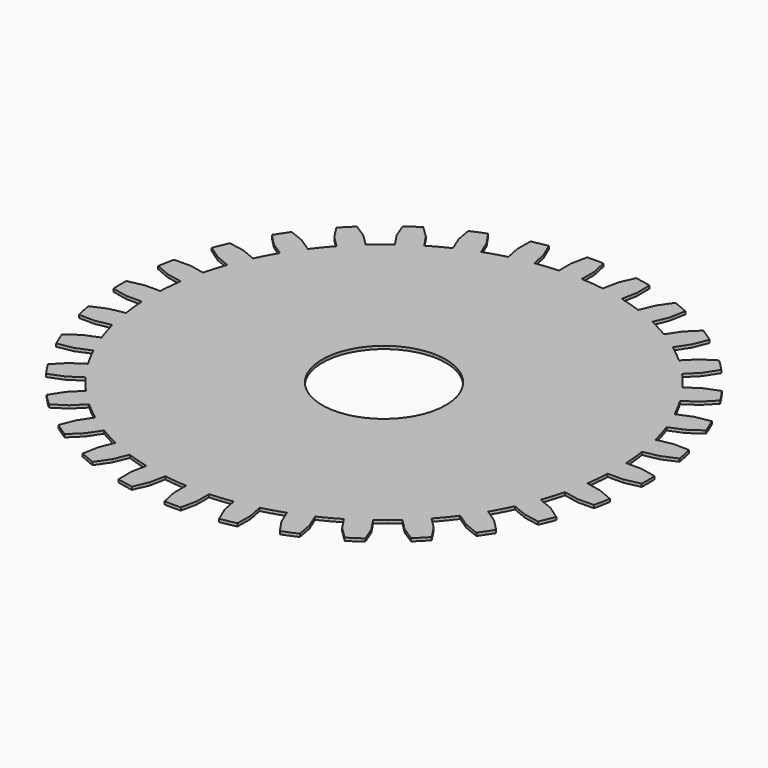
from build123d import *

# Parameters (mm, degrees)
F1_DEPTH = 0.1


with BuildPart() as f1:
    # F0 (on Top) → F1 (new body)
    with BuildSketch(Plane.XY):
        with BuildLine():
            Line((8.764995, 2.024817), (8.219204, 2.032026))
            ThreePointArc((8.219204, 2.032026), (8.303982, 1.651765), (8.371177, 1.268006))
            Line((8.371177, 1.268006), (8.872663, 1.483531))
            ThreePointArc((8.872663, 1.483531), (8.848863, 1.619456), (8.822981, 1.755))
            ThreePointArc((8.822981, 1.755), (8.795023, 1.890131), (8.764995, 2.024817))
        make_face()
        with BuildLine():
            Line((8.201556, 3.695877), (7.664846, 3.596468))
            ThreePointArc((7.664846, 3.596468), (7.82218, 3.240053), (7.962951, 2.876778))
            Line((7.962951, 2.876778), (8.412755, 3.185996))
            ThreePointArc((8.412755, 3.185996), (8.362895, 3.314666), (8.311066, 3.442556))
            ThreePointArc((8.311066, 3.442556), (8.257282, 3.569637), (8.201556, 3.695877))
        make_face()
        with BuildLine():
            Line((7.322935, 5.224906), (6.815932, 5.0227))
            ThreePointArc((6.815932, 5.0227), (7.039776, 4.703828), (7.248714, 4.374996))
            Line((7.248714, 4.374996), (7.629549, 4.766025))
            ThreePointArc((7.629549, 4.766025), (7.555545, 4.882496), (7.479762, 4.997817))
            ThreePointArc((7.479762, 4.997817), (7.402219, 5.111963), (7.322935, 5.224906))
        make_face()
        with BuildLine():
            Line((6.162898, 6.553144), (5.705086, 6.255913))
            ThreePointArc((5.705086, 6.255913), (5.986837, 5.986837), (6.255913, 5.705086))
            Line((6.255913, 5.705086), (6.553144, 6.162898))
            ThreePointArc((6.553144, 6.162898), (6.457839, 6.262693), (6.361015, 6.361015))
            ThreePointArc((6.361015, 6.361015), (6.262693, 6.457839), (6.162898, 6.553144))
        make_face()
        with BuildLine():
            Line((4.766025, 7.629549), (4.374996, 7.248714))
            ThreePointArc((4.374996, 7.248714), (4.703828, 7.039776), (5.0227, 6.815932))
            Line((5.0227, 6.815932), (5.224906, 7.322935))
            ThreePointArc((5.224906, 7.322935), (5.111963, 7.402219), (4.997817, 7.479762))
            ThreePointArc((4.997817, 7.479762), (4.882496, 7.555545), (4.766025, 7.629549))
        make_face()
        with BuildLine():
            Line((3.185996, 8.412755), (2.876778, 7.962951))
            ThreePointArc((2.876778, 7.962951), (3.240053, 7.82218), (3.596468, 7.664846))
            Line((3.596468, 7.664846), (3.695877, 8.201556))
            ThreePointArc((3.695877, 8.201556), (3.569637, 8.257282), (3.442556, 8.311066))
            ThreePointArc((3.442556, 8.311066), (3.314666, 8.362895), (3.185996, 8.412755))
        make_face()
        with BuildLine():
            Line((1.483531, 8.872663), (1.268006, 8.371177))
            ThreePointArc((1.268006, 8.371177), (1.651765, 8.303982), (2.032026, 8.219204))
            Line((2.032026, 8.219204), (2.024817, 8.764995))
            ThreePointArc((2.024817, 8.764995), (1.890131, 8.795023), (1.755, 8.822981))
            ThreePointArc((1.755, 8.822981), (1.619456, 8.848863), (1.483531, 8.872663))
        make_face()
        with BuildLine():
            Line((0, 8.995833), (0, 8.466667))
            ThreePointArc((0, 8.466667), (0.194798, 8.464425), (0.389494, 8.457703))
            Line((0.389494, 8.457703), (0.275945, 8.9916))
            ThreePointArc((0.275945, 8.9916), (0.137989, 8.994775), (0, 8.995833))
        make_face()
        with BuildLine():
            ThreePointArc((-0.389494, 8.457703), (-0.194798, 8.464425), (0, 8.466667))
            Line((0, 8.466667), (0, 8.995833))
            ThreePointArc((0, 8.995833), (-0.137989, 8.994775), (-0.275945, 8.9916))
            Line((-0.275945, 8.9916), (-0.389494, 8.457703))
        make_face()
        with BuildLine():
            ThreePointArc((-2.032026, 8.219204), (-1.651765, 8.303982), (-1.268006, 8.371177))
            Line((-1.268006, 8.371177), (-1.483531, 8.872663))
            ThreePointArc((-1.483531, 8.872663), (-1.619456, 8.848863), (-1.755, 8.822981))
            ThreePointArc((-1.755, 8.822981), (-1.890131, 8.795023), (-2.024817, 8.764995))
            Line((-2.024817, 8.764995), (-2.032026, 8.219204))
        make_face()
        with BuildLine():
            ThreePointArc((-3.596468, 7.664846), (-3.240053, 7.82218), (-2.876778, 7.962951))
            Line((-2.876778, 7.962951), (-3.185996, 8.412755))
            ThreePointArc((-3.185996, 8.412755), (-3.314666, 8.362895), (-3.442556, 8.311066))
            ThreePointArc((-3.442556, 8.311066), (-3.569637, 8.257282), (-3.695877, 8.201556))
            Line((-3.695877, 8.201556), (-3.596468, 7.664846))
        make_face()
        with BuildLine():
            ThreePointArc((-5.0227, 6.815932), (-4.703828, 7.039776), (-4.374996, 7.248714))
            Line((-4.374996, 7.248714), (-4.766025, 7.629549))
            ThreePointArc((-4.766025, 7.629549), (-4.882496, 7.555545), (-4.997817, 7.479762))
            ThreePointArc((-4.997817, 7.479762), (-5.111963, 7.402219), (-5.224906, 7.322935))
            Line((-5.224906, 7.322935), (-5.0227, 6.815932))
        make_face()
        with BuildLine():
            ThreePointArc((-6.255913, 5.705086), (-5.986837, 5.986837), (-5.705086, 6.255913))
            Line((-5.705086, 6.255913), (-6.162898, 6.553144))
            ThreePointArc((-6.162898, 6.553144), (-6.262693, 6.457839), (-6.361015, 6.361015))
            ThreePointArc((-6.361015, 6.361015), (-6.457839, 6.262693), (-6.553144, 6.162898))
            Line((-6.553144, 6.162898), (-6.255913, 5.705086))
        make_face()
        with BuildLine():
            ThreePointArc((-7.248714, 4.374996), (-7.039776, 4.703828), (-6.815932, 5.0227))
            Line((-6.815932, 5.0227), (-7.322935, 5.224906))
            ThreePointArc((-7.322935, 5.224906), (-7.402219, 5.111963), (-7.479762, 4.997817))
            ThreePointArc((-7.479762, 4.997817), (-7.555545, 4.882496), (-7.629549, 4.766025))
            Line((-7.629549, 4.766025), (-7.248714, 4.374996))
        make_face()
        with BuildLine():
            ThreePointArc((-7.962951, 2.876778), (-7.82218, 3.240053), (-7.664846, 3.596468))
            Line((-7.664846, 3.596468), (-8.201556, 3.695877))
            ThreePointArc((-8.201556, 3.695877), (-8.257282, 3.569637), (-8.311066, 3.442556))
            ThreePointArc((-8.311066, 3.442556), (-8.362895, 3.314666), (-8.412755, 3.185996))
            Line((-8.412755, 3.185996), (-7.962951, 2.876778))
        make_face()
        with BuildLine():
            ThreePointArc((-8.371177, 1.268006), (-8.303982, 1.651765), (-8.219204, 2.032026))
            Line((-8.219204, 2.032026), (-8.764995, 2.024817))
            ThreePointArc((-8.764995, 2.024817), (-8.795023, 1.890131), (-8.822981, 1.755))
            ThreePointArc((-8.822981, 1.755), (-8.848863, 1.619456), (-8.872663, 1.483531))
            Line((-8.872663, 1.483531), (-8.371177, 1.268006))
        make_face()
        with BuildLine():
            ThreePointArc((-8.457703, -0.389494), (-8.466667, 0), (-8.457703, 0.389494))
            Line((-8.457703, 0.389494), (-8.9916, 0.275945))
            ThreePointArc((-8.9916, 0.275945), (-8.994775, 0.137989), (-8.995833, 0))
            ThreePointArc((-8.995833, 0), (-8.994775, -0.137989), (-8.9916, -0.275945))
            Line((-8.9916, -0.275945), (-8.457703, -0.389494))
        make_face()
        with BuildLine():
            ThreePointArc((-8.219204, -2.032026), (-8.303982, -1.651765), (-8.371177, -1.268006))
            Line((-8.371177, -1.268006), (-8.872663, -1.483531))
            ThreePointArc((-8.872663, -1.483531), (-8.848863, -1.619456), (-8.822981, -1.755))
            ThreePointArc((-8.822981, -1.755), (-8.795023, -1.890131), (-8.764995, -2.024817))
            Line((-8.764995, -2.024817), (-8.219204, -2.032026))
        make_face()
        with BuildLine():
            ThreePointArc((-7.664846, -3.596468), (-7.82218, -3.240053), (-7.962951, -2.876778))
            Line((-7.962951, -2.876778), (-8.412755, -3.185996))
            ThreePointArc((-8.412755, -3.185996), (-8.362895, -3.314666), (-8.311066, -3.442556))
            ThreePointArc((-8.311066, -3.442556), (-8.257282, -3.569637), (-8.201556, -3.695877))
            Line((-8.201556, -3.695877), (-7.664846, -3.596468))
        make_face()
        with BuildLine():
            ThreePointArc((-6.815932, -5.0227), (-7.039776, -4.703828), (-7.248714, -4.374996))
            Line((-7.248714, -4.374996), (-7.629549, -4.766025))
            ThreePointArc((-7.629549, -4.766025), (-7.555545, -4.882496), (-7.479762, -4.997817))
            ThreePointArc((-7.479762, -4.997817), (-7.402219, -5.111963), (-7.322935, -5.224906))
            Line((-7.322935, -5.224906), (-6.815932, -5.0227))
        make_face()
        with BuildLine():
            ThreePointArc((-5.705086, -6.255913), (-5.986837, -5.986837), (-6.255913, -5.705086))
            Line((-6.255913, -5.705086), (-6.553144, -6.162898))
            ThreePointArc((-6.553144, -6.162898), (-6.457839, -6.262693), (-6.361015, -6.361015))
            ThreePointArc((-6.361015, -6.361015), (-6.262693, -6.457839), (-6.162898, -6.553144))
            Line((-6.162898, -6.553144), (-5.705086, -6.255913))
        make_face()
        with BuildLine():
            ThreePointArc((-4.374996, -7.248714), (-4.703828, -7.039776), (-5.0227, -6.815932))
            Line((-5.0227, -6.815932), (-5.224906, -7.322935))
            ThreePointArc((-5.224906, -7.322935), (-5.111963, -7.402219), (-4.997817, -7.479762))
            ThreePointArc((-4.997817, -7.479762), (-4.882496, -7.555545), (-4.766025, -7.629549))
            Line((-4.766025, -7.629549), (-4.374996, -7.248714))
        make_face()
        with BuildLine():
            ThreePointArc((-2.876778, -7.962951), (-3.240053, -7.82218), (-3.596468, -7.664846))
            Line((-3.596468, -7.664846), (-3.695877, -8.201556))
            ThreePointArc((-3.695877, -8.201556), (-3.569637, -8.257282), (-3.442556, -8.311066))
            ThreePointArc((-3.442556, -8.311066), (-3.314666, -8.362895), (-3.185996, -8.412755))
            Line((-3.185996, -8.412755), (-2.876778, -7.962951))
        make_face()
        with BuildLine():
            ThreePointArc((-1.268006, -8.371177), (-1.651765, -8.303982), (-2.032026, -8.219204))
            Line((-2.032026, -8.219204), (-2.024817, -8.764995))
            ThreePointArc((-2.024817, -8.764995), (-1.890131, -8.795023), (-1.755, -8.822981))
            ThreePointArc((-1.755, -8.822981), (-1.619456, -8.848863), (-1.483531, -8.872663))
            Line((-1.483531, -8.872663), (-1.268006, -8.371177))
        make_face()
        with BuildLine():
            Line((0.275945, -8.9916), (0.389494, -8.457703))
            ThreePointArc((0.389494, -8.457703), (0, -8.466667), (-0.389494, -8.457703))
            Line((-0.389494, -8.457703), (-0.275945, -8.9916))
            ThreePointArc((-0.275945, -8.9916), (-0.137989, -8.994775), (0, -8.995833))
            ThreePointArc((0, -8.995833), (0.137989, -8.994775), (0.275945, -8.9916))
        make_face()
        with BuildLine():
            Line((2.024817, -8.764995), (2.032026, -8.219204))
            ThreePointArc((2.032026, -8.219204), (1.651765, -8.303982), (1.268006, -8.371177))
            Line((1.268006, -8.371177), (1.483531, -8.872663))
            ThreePointArc((1.483531, -8.872663), (1.619456, -8.848863), (1.755, -8.822981))
            ThreePointArc((1.755, -8.822981), (1.890131, -8.795023), (2.024817, -8.764995))
        make_face()
        with BuildLine():
            Line((3.695877, -8.201556), (3.596468, -7.664846))
            ThreePointArc((3.596468, -7.664846), (3.240053, -7.82218), (2.876778, -7.962951))
            Line((2.876778, -7.962951), (3.185996, -8.412755))
            ThreePointArc((3.185996, -8.412755), (3.314666, -8.362895), (3.442556, -8.311066))
            ThreePointArc((3.442556, -8.311066), (3.569637, -8.257282), (3.695877, -8.201556))
        make_face()
        with BuildLine():
            Line((5.224906, -7.322935), (5.0227, -6.815932))
            ThreePointArc((5.0227, -6.815932), (4.703828, -7.039776), (4.374996, -7.248714))
            Line((4.374996, -7.248714), (4.766025, -7.629549))
            ThreePointArc((4.766025, -7.629549), (4.882496, -7.555545), (4.997817, -7.479762))
            ThreePointArc((4.997817, -7.479762), (5.111963, -7.402219), (5.224906, -7.322935))
        make_face()
        with BuildLine():
            Line((6.553144, -6.162898), (6.255913, -5.705086))
            ThreePointArc((6.255913, -5.705086), (5.986837, -5.986837), (5.705086, -6.255913))
            Line((5.705086, -6.255913), (6.162898, -6.553144))
            ThreePointArc((6.162898, -6.553144), (6.262693, -6.457839), (6.361015, -6.361015))
            ThreePointArc((6.361015, -6.361015), (6.457839, -6.262693), (6.553144, -6.162898))
        make_face()
        with BuildLine():
            Line((7.629549, -4.766025), (7.248714, -4.374996))
            ThreePointArc((7.248714, -4.374996), (7.039776, -4.703828), (6.815932, -5.0227))
            Line((6.815932, -5.0227), (7.322935, -5.224906))
            ThreePointArc((7.322935, -5.224906), (7.402219, -5.111963), (7.479762, -4.997817))
            ThreePointArc((7.479762, -4.997817), (7.555545, -4.882496), (7.629549, -4.766025))
        make_face()
        with BuildLine():
            Line((8.412755, -3.185996), (7.962951, -2.876778))
            ThreePointArc((7.962951, -2.876778), (7.82218, -3.240053), (7.664846, -3.596468))
            Line((7.664846, -3.596468), (8.201556, -3.695877))
            ThreePointArc((8.201556, -3.695877), (8.257282, -3.569637), (8.311066, -3.442556))
            ThreePointArc((8.311066, -3.442556), (8.362895, -3.314666), (8.412755, -3.185996))
        make_face()
        with BuildLine():
            Line((8.872663, -1.483531), (8.371177, -1.268006))
            ThreePointArc((8.371177, -1.268006), (8.303982, -1.651765), (8.219204, -2.032026))
            Line((8.219204, -2.032026), (8.764995, -2.024817))
            ThreePointArc((8.764995, -2.024817), (8.795023, -1.890131), (8.822981, -1.755))
            ThreePointArc((8.822981, -1.755), (8.848863, -1.619456), (8.872663, -1.483531))
        make_face()
        with BuildLine():
            Line((8.9916, 0.275945), (8.457703, 0.389494))
            ThreePointArc((8.457703, 0.389494), (8.464425, 0.194798), (8.466667, 0))
            ThreePointArc((8.466667, 0), (8.464425, -0.194798), (8.457703, -0.389494))
            Line((8.457703, -0.389494), (8.9916, -0.275945))
            ThreePointArc((8.9916, -0.275945), (8.994775, -0.137989), (8.995833, 0))
            ThreePointArc((8.995833, 0), (8.994775, 0.137989), (8.9916, 0.275945))
        make_face()
        with BuildLine():
            Line((-4.728363, -6.37546), (-5.0227, -6.815932))
            ThreePointArc((-5.0227, -6.815932), (-4.703828, -7.039776), (-4.374996, -7.248714))
            Line((-4.374996, -7.248714), (-4.080691, -6.808221))
            ThreePointArc((-4.080691, -6.808221), (-4.409839, -6.59979), (-4.728363, -6.37546))
        make_face()
        with BuildLine():
            Line((-3.393719, -7.175415), (-3.596468, -7.664846))
            ThreePointArc((-3.596468, -7.664846), (-3.240053, -7.82218), (-2.876778, -7.962951))
            Line((-2.876778, -7.962951), (-2.674063, -7.473506))
            ThreePointArc((-2.674063, -7.473506), (-3.03755, -7.333294), (-3.393719, -7.175415))
        make_face()
        with BuildLine():
            Line((-1.928655, -7.699623), (-2.032026, -8.219204))
            ThreePointArc((-2.032026, -8.219204), (-1.651765, -8.303982), (-1.268006, -8.371177))
            Line((-1.268006, -8.371177), (-1.164673, -7.851589))
            ThreePointArc((-1.164673, -7.851589), (-1.548529, -7.784983), (-1.928655, -7.699623))
        make_face()
        with BuildLine():
            ThreePointArc((-0.389494, -8.457703), (0, -8.466667), (0.389494, -8.457703))
            Line((0.389494, -8.457703), (0.389475, -7.927939))
            ThreePointArc((0.389475, -7.927939), (0, -7.9375), (-0.389475, -7.927939))
            Line((-0.389475, -7.927939), (-0.389494, -8.457703))
        make_face()
        with BuildLine():
            ThreePointArc((1.268006, -8.371177), (1.651765, -8.303982), (2.032026, -8.219204))
            Line((2.032026, -8.219204), (1.928655, -7.699623))
            ThreePointArc((1.928655, -7.699623), (1.548529, -7.784983), (1.164673, -7.851589))
            Line((1.164673, -7.851589), (1.268006, -8.371177))
        make_face()
        with BuildLine():
            ThreePointArc((2.876778, -7.962951), (3.240053, -7.82218), (3.596468, -7.664846))
            Line((3.596468, -7.664846), (3.393719, -7.175415))
            ThreePointArc((3.393719, -7.175415), (3.03755, -7.333294), (2.674063, -7.473506))
            Line((2.674063, -7.473506), (2.876778, -7.962951))
        make_face()
        with BuildLine():
            ThreePointArc((4.374996, -7.248714), (4.703828, -7.039776), (5.0227, -6.815932))
            Line((5.0227, -6.815932), (4.728363, -6.37546))
            ThreePointArc((4.728363, -6.37546), (4.409839, -6.59979), (4.080691, -6.808221))
            Line((4.080691, -6.808221), (4.374996, -7.248714))
        make_face()
        with BuildLine():
            ThreePointArc((5.705086, -6.255913), (5.986837, -5.986837), (6.255913, -5.705086))
            Line((6.255913, -5.705086), (5.8813, -5.330499))
            ThreePointArc((5.8813, -5.330499), (5.61266, -5.61266), (5.330499, -5.8813))
            Line((5.330499, -5.8813), (5.705086, -6.255913))
        make_face()
        with BuildLine():
            ThreePointArc((6.815932, -5.0227), (7.039776, -4.703828), (7.248714, -4.374996))
            Line((7.248714, -4.374996), (6.808221, -4.080691))
            ThreePointArc((6.808221, -4.080691), (6.59979, -4.409839), (6.37546, -4.728363))
            Line((6.37546, -4.728363), (6.815932, -5.0227))
        make_face()
        with BuildLine():
            ThreePointArc((7.664846, -3.596468), (7.82218, -3.240053), (7.962951, -2.876778))
            Line((7.962951, -2.876778), (7.473506, -2.674063))
            ThreePointArc((7.473506, -2.674063), (7.333294, -3.03755), (7.175415, -3.393719))
            Line((7.175415, -3.393719), (7.664846, -3.596468))
        make_face()
        with BuildLine():
            ThreePointArc((8.219204, -2.032026), (8.303982, -1.651765), (8.371177, -1.268006))
            Line((8.371177, -1.268006), (7.851589, -1.164673))
            ThreePointArc((7.851589, -1.164673), (7.784983, -1.548529), (7.699623, -1.928655))
            Line((7.699623, -1.928655), (8.219204, -2.032026))
        make_face()
        with BuildLine():
            ThreePointArc((8.466667, 0), (8.464425, 0.194798), (8.457703, 0.389494))
            Line((8.457703, 0.389494), (7.927939, 0.389475))
            ThreePointArc((7.927939, 0.389475), (7.935109, 0.194796), (7.9375, 0))
            ThreePointArc((7.9375, 0), (7.935109, -0.194796), (7.927939, -0.389475))
            Line((7.927939, -0.389475), (8.457703, -0.389494))
            ThreePointArc((8.457703, -0.389494), (8.464425, -0.194798), (8.466667, 0))
        make_face()
        with BuildLine():
            ThreePointArc((8.371177, 1.268006), (8.303982, 1.651765), (8.219204, 2.032026))
            Line((8.219204, 2.032026), (7.699623, 1.928655))
            ThreePointArc((7.699623, 1.928655), (7.784983, 1.548529), (7.851589, 1.164673))
            Line((7.851589, 1.164673), (8.371177, 1.268006))
        make_face()
        with BuildLine():
            ThreePointArc((7.962951, 2.876778), (7.82218, 3.240053), (7.664846, 3.596468))
            Line((7.664846, 3.596468), (7.175415, 3.393719))
            ThreePointArc((7.175415, 3.393719), (7.333294, 3.03755), (7.473506, 2.674063))
            Line((7.473506, 2.674063), (7.962951, 2.876778))
        make_face()
        with BuildLine():
            ThreePointArc((7.248714, 4.374996), (7.039776, 4.703828), (6.815932, 5.0227))
            Line((6.815932, 5.0227), (6.37546, 4.728363))
            ThreePointArc((6.37546, 4.728363), (6.59979, 4.409839), (6.808221, 4.080691))
            Line((6.808221, 4.080691), (7.248714, 4.374996))
        make_face()
        with BuildLine():
            ThreePointArc((6.255913, 5.705086), (5.986837, 5.986837), (5.705086, 6.255913))
            Line((5.705086, 6.255913), (5.330499, 5.8813))
            ThreePointArc((5.330499, 5.8813), (5.61266, 5.61266), (5.8813, 5.330499))
            Line((5.8813, 5.330499), (6.255913, 5.705086))
        make_face()
        with BuildLine():
            ThreePointArc((5.0227, 6.815932), (4.703828, 7.039776), (4.374996, 7.248714))
            Line((4.374996, 7.248714), (4.080691, 6.808221))
            ThreePointArc((4.080691, 6.808221), (4.409839, 6.59979), (4.728363, 6.37546))
            Line((4.728363, 6.37546), (5.0227, 6.815932))
        make_face()
        with BuildLine():
            Line((2.876778, 7.962951), (2.674063, 7.473506))
            ThreePointArc((2.674063, 7.473506), (3.03755, 7.333294), (3.393719, 7.175415))
            Line((3.393719, 7.175415), (3.596468, 7.664846))
            ThreePointArc((3.596468, 7.664846), (3.240053, 7.82218), (2.876778, 7.962951))
        make_face()
        with BuildLine():
            Line((1.268006, 8.371177), (1.164673, 7.851589))
            ThreePointArc((1.164673, 7.851589), (1.548529, 7.784983), (1.928655, 7.699623))
            Line((1.928655, 7.699623), (2.032026, 8.219204))
            ThreePointArc((2.032026, 8.219204), (1.651765, 8.303982), (1.268006, 8.371177))
        make_face()
        with BuildLine():
            Line((0, 8.466667), (0, 7.9375))
            ThreePointArc((0, 7.9375), (0.194796, 7.935109), (0.389475, 7.927939))
            Line((0.389475, 7.927939), (0.389494, 8.457703))
            ThreePointArc((0.389494, 8.457703), (0.194798, 8.464425), (0, 8.466667))
        make_face()
        with BuildLine():
            ThreePointArc((-1.928655, 7.699623), (-1.548529, 7.784983), (-1.164673, 7.851589))
            Line((-1.164673, 7.851589), (-1.268006, 8.371177))
            ThreePointArc((-1.268006, 8.371177), (-1.651765, 8.303982), (-2.032026, 8.219204))
            Line((-2.032026, 8.219204), (-1.928655, 7.699623))
        make_face()
        with BuildLine():
            Line((-2.674063, 7.473506), (-2.876778, 7.962951))
            ThreePointArc((-2.876778, 7.962951), (-3.240053, 7.82218), (-3.596468, 7.664846))
            Line((-3.596468, 7.664846), (-3.393719, 7.175415))
            ThreePointArc((-3.393719, 7.175415), (-3.03755, 7.333294), (-2.674063, 7.473506))
        make_face()
        with BuildLine():
            Line((-4.080691, 6.808221), (-4.374996, 7.248714))
            ThreePointArc((-4.374996, 7.248714), (-4.703828, 7.039776), (-5.0227, 6.815932))
            Line((-5.0227, 6.815932), (-4.728363, 6.37546))
            ThreePointArc((-4.728363, 6.37546), (-4.409839, 6.59979), (-4.080691, 6.808221))
        make_face()
        with BuildLine():
            Line((-5.330499, 5.8813), (-5.705086, 6.255913))
            ThreePointArc((-5.705086, 6.255913), (-5.986837, 5.986837), (-6.255913, 5.705086))
            Line((-6.255913, 5.705086), (-5.8813, 5.330499))
            ThreePointArc((-5.8813, 5.330499), (-5.61266, 5.61266), (-5.330499, 5.8813))
        make_face()
        with BuildLine():
            Line((-6.37546, 4.728363), (-6.815932, 5.0227))
            ThreePointArc((-6.815932, 5.0227), (-7.039776, 4.703828), (-7.248714, 4.374996))
            Line((-7.248714, 4.374996), (-6.808221, 4.080691))
            ThreePointArc((-6.808221, 4.080691), (-6.59979, 4.409839), (-6.37546, 4.728363))
        make_face()
        with BuildLine():
            Line((-7.175415, 3.393719), (-7.664846, 3.596468))
            ThreePointArc((-7.664846, 3.596468), (-7.82218, 3.240053), (-7.962951, 2.876778))
            Line((-7.962951, 2.876778), (-7.473506, 2.674063))
            ThreePointArc((-7.473506, 2.674063), (-7.333294, 3.03755), (-7.175415, 3.393719))
        make_face()
        with BuildLine():
            Line((-7.699623, 1.928655), (-8.219204, 2.032026))
            ThreePointArc((-8.219204, 2.032026), (-8.303982, 1.651765), (-8.371177, 1.268006))
            Line((-8.371177, 1.268006), (-7.851589, 1.164673))
            ThreePointArc((-7.851589, 1.164673), (-7.784983, 1.548529), (-7.699623, 1.928655))
        make_face()
        with BuildLine():
            Line((-7.927939, 0.389475), (-8.457703, 0.389494))
            ThreePointArc((-8.457703, 0.389494), (-8.466667, 0), (-8.457703, -0.389494))
            Line((-8.457703, -0.389494), (-7.927939, -0.389475))
            ThreePointArc((-7.927939, -0.389475), (-7.9375, 0), (-7.927939, 0.389475))
        make_face()
        with BuildLine():
            Line((-7.851589, -1.164673), (-8.371177, -1.268006))
            ThreePointArc((-8.371177, -1.268006), (-8.303982, -1.651765), (-8.219204, -2.032026))
            Line((-8.219204, -2.032026), (-7.699623, -1.928655))
            ThreePointArc((-7.699623, -1.928655), (-7.784983, -1.548529), (-7.851589, -1.164673))
        make_face()
        with BuildLine():
            Line((-7.473506, -2.674063), (-7.962951, -2.876778))
            ThreePointArc((-7.962951, -2.876778), (-7.82218, -3.240053), (-7.664846, -3.596468))
            Line((-7.664846, -3.596468), (-7.175415, -3.393719))
            ThreePointArc((-7.175415, -3.393719), (-7.333294, -3.03755), (-7.473506, -2.674063))
        make_face()
        with BuildLine():
            Line((-6.808221, -4.080691), (-7.248714, -4.374996))
            ThreePointArc((-7.248714, -4.374996), (-7.039776, -4.703828), (-6.815932, -5.0227))
            Line((-6.815932, -5.0227), (-6.37546, -4.728363))
            ThreePointArc((-6.37546, -4.728363), (-6.59979, -4.409839), (-6.808221, -4.080691))
        make_face()
        with BuildLine():
            Line((-5.8813, -5.330499), (-6.255913, -5.705086))
            ThreePointArc((-6.255913, -5.705086), (-5.986837, -5.986837), (-5.705086, -6.255913))
            Line((-5.705086, -6.255913), (-5.330499, -5.8813))
            ThreePointArc((-5.330499, -5.8813), (-5.61266, -5.61266), (-5.8813, -5.330499))
        make_face()
        with BuildLine():
            ThreePointArc((0, 2.105), (0.103287, 2.102464), (0.206326, 2.094864))
            Line((0.206326, 2.094864), (0.778011, 7.899279))
            ThreePointArc((0.778011, 7.899279), (0.583919, 7.915993), (0.389475, 7.927939))
            ThreePointArc((0.389475, 7.927939), (0.194796, 7.935109), (0, 7.9375))
            Line((0, 7.9375), (0, 2.105))
        make_face()
        with BuildLine():
            ThreePointArc((-0.389475, 7.927939), (-0.194796, 7.935109), (0, 7.9375))
            Line((0, 7.9375), (0, 8.466667))
            ThreePointArc((0, 8.466667), (-0.194798, 8.464425), (-0.389494, 8.457703))
            Line((-0.389494, 8.457703), (-0.389475, 7.927939))
        make_face()
        with BuildLine():
            Line((0.778011, 7.899279), (0.206326, 2.094864))
            ThreePointArc((0.206326, 2.094864), (1.559702, 1.413632), (2.105, 0))
            ThreePointArc((2.105, 0), (-1.48846, -1.48846), (0, 2.105))
            Line((0, 2.105), (0, 7.9375))
            ThreePointArc((0, 7.9375), (-0.194796, 7.935109), (-0.389475, 7.927939))
            ThreePointArc((-0.389475, 7.927939), (-0.583919, 7.915993), (-0.778011, 7.899279))
            ThreePointArc((-0.778011, 7.899279), (-0.971635, 7.877806), (-1.164673, 7.851589))
            ThreePointArc((-1.164673, 7.851589), (-1.548529, 7.784983), (-1.928655, 7.699623))
            ThreePointArc((-1.928655, 7.699623), (-2.117033, 7.649973), (-2.304135, 7.595714))
            ThreePointArc((-2.304135, 7.595714), (-2.489849, 7.53688), (-2.674063, 7.473506))
            ThreePointArc((-2.674063, 7.473506), (-3.03755, 7.333294), (-3.393719, 7.175415))
            ThreePointArc((-3.393719, 7.175415), (-3.56879, 7.089968), (-3.741712, 7.00025))
            ThreePointArc((-3.741712, 7.00025), (-3.912379, 6.906315), (-4.080691, 6.808221))
            ThreePointArc((-4.080691, 6.808221), (-4.409839, 6.59979), (-4.728363, 6.37546))
            ThreePointArc((-4.728363, 6.37546), (-4.883401, 6.2575), (-5.035497, 6.13577))
            ThreePointArc((-5.035497, 6.13577), (-5.184559, 6.010345), (-5.330499, 5.8813))
            ThreePointArc((-5.330499, 5.8813), (-5.61266, 5.61266), (-5.8813, 5.330499))
            ThreePointArc((-5.8813, 5.330499), (-6.010345, 5.184559), (-6.13577, 5.035497))
            ThreePointArc((-6.13577, 5.035497), (-6.2575, 4.883401), (-6.37546, 4.728363))
            ThreePointArc((-6.37546, 4.728363), (-6.59979, 4.409839), (-6.808221, 4.080691))
            ThreePointArc((-6.808221, 4.080691), (-6.906315, 3.912379), (-7.00025, 3.741712))
            ThreePointArc((-7.00025, 3.741712), (-7.089968, 3.56879), (-7.175415, 3.393719))
            ThreePointArc((-7.175415, 3.393719), (-7.333294, 3.03755), (-7.473506, 2.674063))
            ThreePointArc((-7.473506, 2.674063), (-7.53688, 2.489849), (-7.595714, 2.304135))
            ThreePointArc((-7.595714, 2.304135), (-7.649973, 2.117033), (-7.699623, 1.928655))
            ThreePointArc((-7.699623, 1.928655), (-7.784983, 1.548529), (-7.851589, 1.164673))
            ThreePointArc((-7.851589, 1.164673), (-7.877806, 0.971635), (-7.899279, 0.778011))
            ThreePointArc((-7.899279, 0.778011), (-7.915993, 0.583919), (-7.927939, 0.389475))
            ThreePointArc((-7.927939, 0.389475), (-7.9375, 0), (-7.927939, -0.389475))
            ThreePointArc((-7.927939, -0.389475), (-7.915993, -0.583919), (-7.899279, -0.778011))
            ThreePointArc((-7.899279, -0.778011), (-7.877806, -0.971635), (-7.851589, -1.164673))
            ThreePointArc((-7.851589, -1.164673), (-7.784983, -1.548529), (-7.699623, -1.928655))
            ThreePointArc((-7.699623, -1.928655), (-7.649973, -2.117033), (-7.595714, -2.304135))
            ThreePointArc((-7.595714, -2.304135), (-7.53688, -2.489849), (-7.473506, -2.674063))
            ThreePointArc((-7.473506, -2.674063), (-7.333294, -3.03755), (-7.175415, -3.393719))
            ThreePointArc((-7.175415, -3.393719), (-7.089968, -3.56879), (-7.00025, -3.741712))
            ThreePointArc((-7.00025, -3.741712), (-6.906315, -3.912379), (-6.808221, -4.080691))
            ThreePointArc((-6.808221, -4.080691), (-6.59979, -4.409839), (-6.37546, -4.728363))
            ThreePointArc((-6.37546, -4.728363), (-6.2575, -4.883401), (-6.13577, -5.035497))
            ThreePointArc((-6.13577, -5.035497), (-6.010345, -5.184559), (-5.8813, -5.330499))
            ThreePointArc((-5.8813, -5.330499), (-5.61266, -5.61266), (-5.330499, -5.8813))
            ThreePointArc((-5.330499, -5.8813), (-5.184559, -6.010345), (-5.035497, -6.13577))
            ThreePointArc((-5.035497, -6.13577), (-4.883401, -6.2575), (-4.728363, -6.37546))
            ThreePointArc((-4.728363, -6.37546), (-4.409839, -6.59979), (-4.080691, -6.808221))
            ThreePointArc((-4.080691, -6.808221), (-3.912379, -6.906315), (-3.741712, -7.00025))
            ThreePointArc((-3.741712, -7.00025), (-3.56879, -7.089968), (-3.393719, -7.175415))
            ThreePointArc((-3.393719, -7.175415), (-3.03755, -7.333294), (-2.674063, -7.473506))
            ThreePointArc((-2.674063, -7.473506), (-2.489849, -7.53688), (-2.304135, -7.595714))
            ThreePointArc((-2.304135, -7.595714), (-2.117033, -7.649973), (-1.928655, -7.699623))
            ThreePointArc((-1.928655, -7.699623), (-1.548529, -7.784983), (-1.164673, -7.851589))
            ThreePointArc((-1.164673, -7.851589), (-0.971635, -7.877806), (-0.778011, -7.899279))
            ThreePointArc((-0.778011, -7.899279), (-0.583919, -7.915993), (-0.389475, -7.927939))
            ThreePointArc((-0.389475, -7.927939), (0, -7.9375), (0.389475, -7.927939))
            ThreePointArc((0.389475, -7.927939), (0.583919, -7.915993), (0.778011, -7.899279))
            ThreePointArc((0.778011, -7.899279), (0.971635, -7.877806), (1.164673, -7.851589))
            ThreePointArc((1.164673, -7.851589), (1.548529, -7.784983), (1.928655, -7.699623))
            ThreePointArc((1.928655, -7.699623), (2.117033, -7.649973), (2.304135, -7.595714))
            ThreePointArc((2.304135, -7.595714), (2.489849, -7.53688), (2.674063, -7.473506))
            ThreePointArc((2.674063, -7.473506), (3.03755, -7.333294), (3.393719, -7.175415))
            ThreePointArc((3.393719, -7.175415), (3.56879, -7.089968), (3.741712, -7.00025))
            ThreePointArc((3.741712, -7.00025), (3.912379, -6.906315), (4.080691, -6.808221))
            ThreePointArc((4.080691, -6.808221), (4.409839, -6.59979), (4.728363, -6.37546))
            ThreePointArc((4.728363, -6.37546), (4.883401, -6.2575), (5.035497, -6.13577))
            ThreePointArc((5.035497, -6.13577), (5.184559, -6.010345), (5.330499, -5.8813))
            ThreePointArc((5.330499, -5.8813), (5.61266, -5.61266), (5.8813, -5.330499))
            ThreePointArc((5.8813, -5.330499), (6.010345, -5.184559), (6.13577, -5.035497))
            ThreePointArc((6.13577, -5.035497), (6.2575, -4.883401), (6.37546, -4.728363))
            ThreePointArc((6.37546, -4.728363), (6.59979, -4.409839), (6.808221, -4.080691))
            ThreePointArc((6.808221, -4.080691), (6.906315, -3.912379), (7.00025, -3.741712))
            ThreePointArc((7.00025, -3.741712), (7.089968, -3.56879), (7.175415, -3.393719))
            ThreePointArc((7.175415, -3.393719), (7.333294, -3.03755), (7.473506, -2.674063))
            ThreePointArc((7.473506, -2.674063), (7.53688, -2.489849), (7.595714, -2.304135))
            ThreePointArc((7.595714, -2.304135), (7.649973, -2.117033), (7.699623, -1.928655))
            ThreePointArc((7.699623, -1.928655), (7.784983, -1.548529), (7.851589, -1.164673))
            ThreePointArc((7.851589, -1.164673), (7.877806, -0.971635), (7.899279, -0.778011))
            ThreePointArc((7.899279, -0.778011), (7.915993, -0.583919), (7.927939, -0.389475))
            ThreePointArc((7.927939, -0.389475), (7.935109, -0.194796), (7.9375, 0))
            ThreePointArc((7.9375, 0), (7.935109, 0.194796), (7.927939, 0.389475))
            ThreePointArc((7.927939, 0.389475), (7.915993, 0.583919), (7.899279, 0.778011))
            ThreePointArc((7.899279, 0.778011), (7.877806, 0.971635), (7.851589, 1.164673))
            ThreePointArc((7.851589, 1.164673), (7.784983, 1.548529), (7.699623, 1.928655))
            ThreePointArc((7.699623, 1.928655), (7.649973, 2.117033), (7.595714, 2.304135))
            ThreePointArc((7.595714, 2.304135), (7.53688, 2.489849), (7.473506, 2.674063))
            ThreePointArc((7.473506, 2.674063), (7.333294, 3.03755), (7.175415, 3.393719))
            ThreePointArc((7.175415, 3.393719), (7.089968, 3.56879), (7.00025, 3.741712))
            ThreePointArc((7.00025, 3.741712), (6.906315, 3.912379), (6.808221, 4.080691))
            ThreePointArc((6.808221, 4.080691), (6.59979, 4.409839), (6.37546, 4.728363))
            ThreePointArc((6.37546, 4.728363), (6.2575, 4.883401), (6.13577, 5.035497))
            ThreePointArc((6.13577, 5.035497), (6.010345, 5.184559), (5.8813, 5.330499))
            ThreePointArc((5.8813, 5.330499), (5.61266, 5.61266), (5.330499, 5.8813))
            ThreePointArc((5.330499, 5.8813), (5.184559, 6.010345), (5.035497, 6.13577))
            ThreePointArc((5.035497, 6.13577), (4.883401, 6.2575), (4.728363, 6.37546))
            ThreePointArc((4.728363, 6.37546), (4.409839, 6.59979), (4.080691, 6.808221))
            ThreePointArc((4.080691, 6.808221), (3.912379, 6.906315), (3.741712, 7.00025))
            ThreePointArc((3.741712, 7.00025), (3.56879, 7.089968), (3.393719, 7.175415))
            ThreePointArc((3.393719, 7.175415), (3.03755, 7.333294), (2.674063, 7.473506))
            ThreePointArc((2.674063, 7.473506), (2.489849, 7.53688), (2.304135, 7.595714))
            ThreePointArc((2.304135, 7.595714), (2.117033, 7.649973), (1.928655, 7.699623))
            ThreePointArc((1.928655, 7.699623), (1.548529, 7.784983), (1.164673, 7.851589))
            ThreePointArc((1.164673, 7.851589), (0.971635, 7.877806), (0.778011, 7.899279))
        make_face()
    extrude(amount=F1_DEPTH)


solid = f1.part
